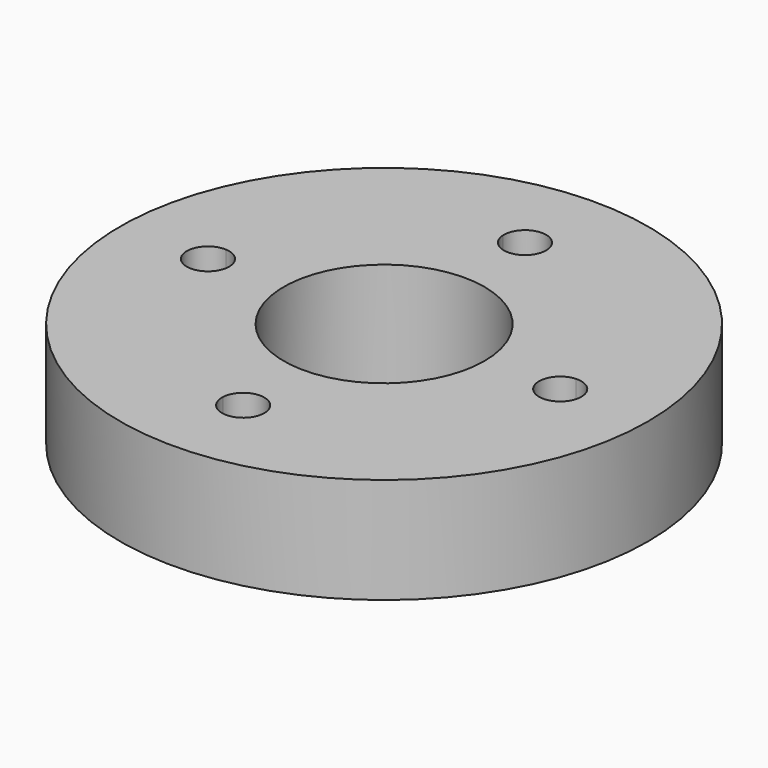
from build123d import *

# Parameters (mm, degrees)
F0_R     = 74.93
F0_R_2   = 28.5
F1_DEPTH = 30


with BuildPart() as f1:
    # F0 (on Top) → F1 (new body)
    with BuildSketch(Plane.XY):
        Circle(F0_R)
        with BuildLine():
            ThreePointArc((5.98919, 49.64), (35.355339, 35.355339), (49.64, 5.98919))
            ThreePointArc((49.64, 5.98919), (54.113393, 4.368066), (56, 0))
            ThreePointArc((56, 0), (54.113393, -4.368066), (49.64, -5.98919))
            ThreePointArc((49.64, -5.98919), (35.355339, -35.355339), (5.98919, -49.64))
            ThreePointArc((5.98919, -49.64), (5.997297, -49.819919), (6, -50))
            ThreePointArc((6, -50), (-0.180081, -55.997297), (-5.98919, -49.64))
            ThreePointArc((-5.98919, -49.64), (-35.355339, -35.355339), (-49.64, -5.98919))
            ThreePointArc((-49.64, -5.98919), (-56, 0), (-49.64, 5.98919))
            ThreePointArc((-49.64, 5.98919), (-35.355339, 35.355339), (-5.98919, 49.64))
            ThreePointArc((-5.98919, 49.64), (-0.180081, 55.997297), (6, 50))
            ThreePointArc((6, 50), (5.997297, 49.819919), (5.98919, 49.64))
        make_face(mode=Mode.SUBTRACT)
        with BuildLine():
            ThreePointArc((49.64, -5.98919), (44, 0), (49.64, 5.98919))
            ThreePointArc((49.64, 5.98919), (35.355339, 35.355339), (5.98919, 49.64))
            ThreePointArc((5.98919, 49.64), (0, 44), (-5.98919, 49.64))
            ThreePointArc((-5.98919, 49.64), (-35.355339, 35.355339), (-49.64, 5.98919))
            ThreePointArc((-49.64, 5.98919), (-45.631934, 4.113393), (-44, 0))
            ThreePointArc((-44, 0), (-45.631934, -4.113393), (-49.64, -5.98919))
            ThreePointArc((-49.64, -5.98919), (-35.355339, -35.355339), (-5.98919, -49.64))
            ThreePointArc((-5.98919, -49.64), (0, -44), (5.98919, -49.64))
            ThreePointArc((5.98919, -49.64), (35.355339, -35.355339), (49.64, -5.98919))
        make_face()
        Circle(F0_R_2, mode=Mode.SUBTRACT)
    extrude(amount=F1_DEPTH)


solid = f1.part
